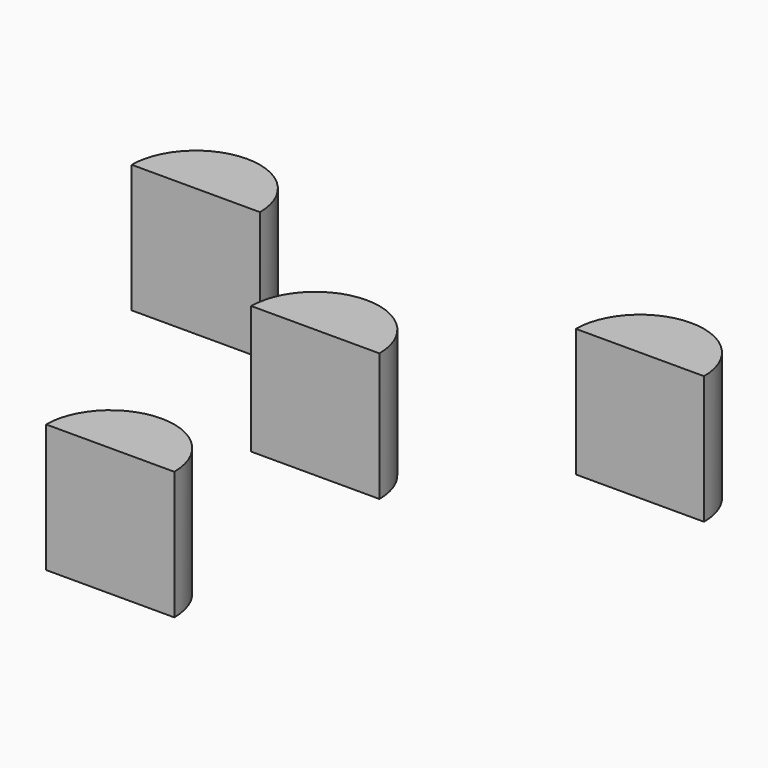
from build123d import *

# Parameters (mm, degrees)
F1_DEPTH = 25


with BuildPart() as f1:
    # F0 (on Top) → F1 (new body)
    with BuildSketch(Plane.XY):
        with BuildLine():
            Line((-55.80127, 25), (-30.80127, 25))
            ThreePointArc((-30.80127, 25), (-43.30127, 37.5), (-55.80127, 25))
        make_face()
        with BuildLine():
            Line((-12.5, 0), (12.5, 0))
            ThreePointArc((12.5, 0), (0, 12.5), (-12.5, 0))
        make_face()
        with BuildLine():
            Line((30.80127, 25), (55.80127, 25))
            ThreePointArc((55.80127, 25), (43.30127, 37.5), (30.80127, 25))
        make_face()
        with BuildLine():
            Line((-12.5, -50), (12.5, -50))
            ThreePointArc((12.5, -50), (0, -37.5), (-12.5, -50))
        make_face()
    extrude(amount=F1_DEPTH)


solid = f1.part
